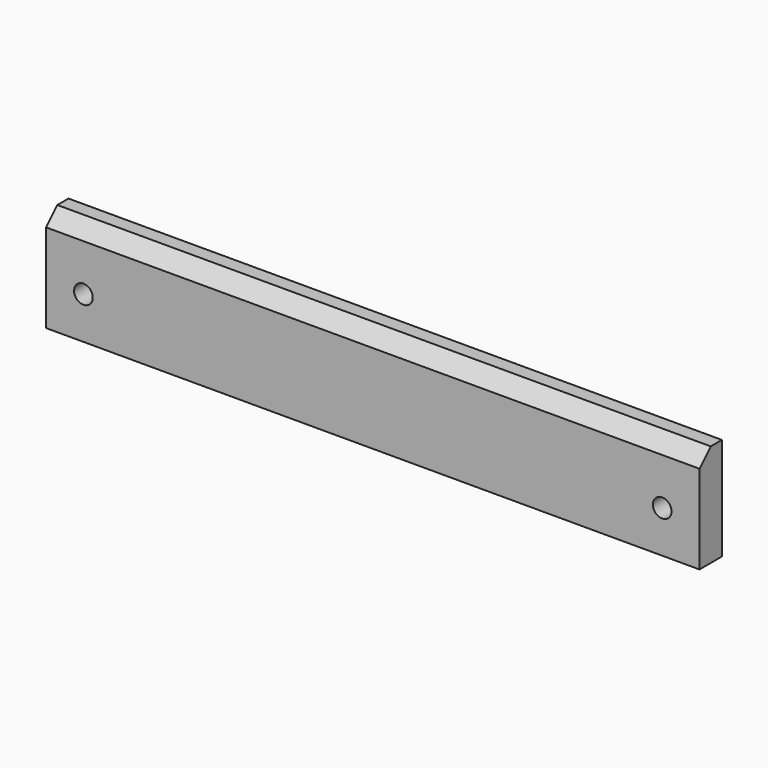
from build123d import *

# Parameters (mm, degrees)
F0_W     = 19.05
F0_H     = 139.7
F1_DEPTH = 444.5
F2_SIZE  = 19.05
F3_R     = 12.7
F4_DEPTH = 38.101


with BuildPart() as f1:
    # F0 (on Right) → F1 (new body, symmetric)
    with BuildSketch(Plane.YZ):
        with Locations((-9.525, 0)):
            Rectangle(F0_W, F0_H)
        with Locations((9.525, 0)):
            Rectangle(F0_W, F0_H)
    extrude(amount=F1_DEPTH, both=True)

    # F2
    f2_edges = [f1.edges().sort_by_distance(p)[0] for p in [
        (0, -19.05, 69.85),
    ]]
    chamfer(f2_edges, length=F2_SIZE)

    # F3 (on face) → F4 (cut, through all)
    with BuildSketch(Plane.XZ.offset(19.05)):
        with Locations((-393.7, -12.7)):
            Circle(F3_R)
        with Locations((393.7, -12.7)):
            Circle(F3_R)
    extrude(amount=-F4_DEPTH, mode=Mode.SUBTRACT)


solid = f1.part
